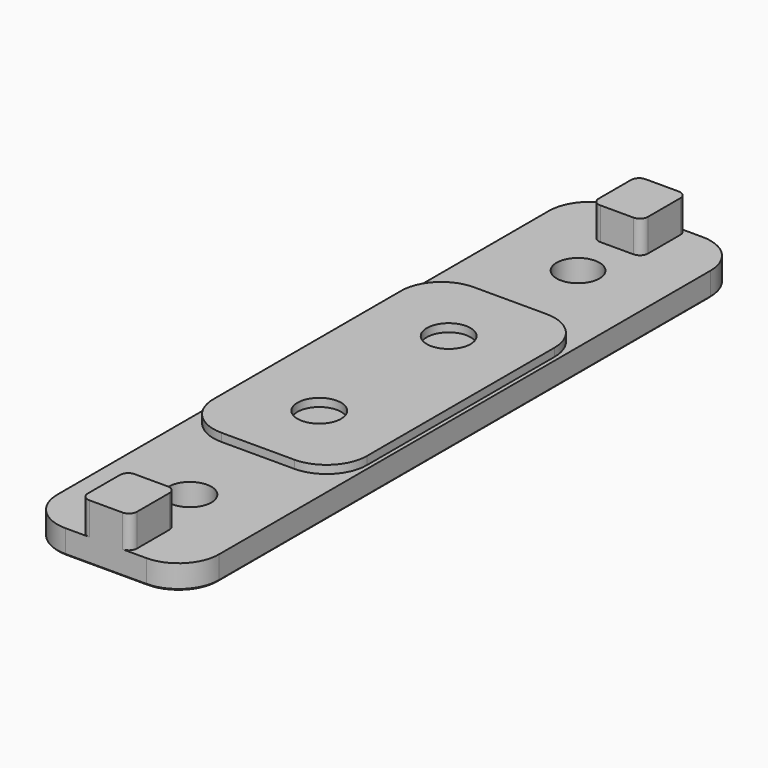
from build123d import *

# Parameters (mm, degrees)
F0_W       = 19
F0_H       = 39
F0_R       = 2.7
F3_R       = 5
F4_W       = 20
F4_H       = 86
F4_R       = 2.65
F5_DEPTH   = 3
F6_W       = 6.1
F6_H       = 7
F7_DEPTH   = 4
F8_R       = 5
F9_R       = 1
F10_SIZE   = 0.2
F10_2_SIZE = 0.2


with BuildPart() as f2:
    # F2: sweep along a path in F1
    with BuildLine(Plane.XZ) as f2_path:
        Line((0, 0), (0, 4))
    # F0 (on Top) → F2 (sweep)
    with BuildSketch(Plane.XY):
        Rectangle(F0_W, F0_H)
        with Locations((0, -10)):
            Circle(F0_R, mode=Mode.SUBTRACT)
        with Locations((0, 10)):
            Circle(F0_R, mode=Mode.SUBTRACT)
    sweep(path=f2_path.line)

    # F3
    f3_edges = [f2.edges().sort_by_distance(p)[0] for p in [
        (-9.5, -19.5, 2),
        (9.5, -19.5, 2),
        (-9.5, 19.5, 2),
        (9.5, 19.5, 2),
    ]]
    fillet(f3_edges, radius=F3_R)

    # F10
    f10_edges = [f2.edges().sort_by_distance(p)[0] for p in [
        (9.5, 0, 0),
        (8.035534, -18.035534, 0),
        (8.035534, 18.035534, 0),
        (0, -19.5, 0),
        (0, 19.5, 0),
        (-8.035534, -18.035534, 0),
        (-8.035534, 18.035534, 0),
        (-9.5, 0, 0),
        (-2.7, -10, 0),
        (-2.7, 10, 0),
    ]]
    chamfer(f10_edges, length=F10_SIZE)


with BuildPart() as f5:
    # F4 (on Top) → F5 (new body)
    with BuildSketch(Plane.XY):
        Rectangle(F4_W, F4_H)
        with Locations((0, -30)):
            Circle(F4_R, mode=Mode.SUBTRACT)
        Circle(F4_R, mode=Mode.SUBTRACT)
        with Locations((0, 30)):
            Circle(F4_R, mode=Mode.SUBTRACT)
    extrude(amount=F5_DEPTH)

    # F6 (on face) → F7 (join)
    with BuildSketch(Plane.XY.offset(3)):
        with Locations((0, 39.5)):
            Rectangle(F6_W, F6_H)
        with Locations((0, -39.5)):
            Rectangle(F6_W, F6_H)
    extrude(amount=F7_DEPTH)

    # F8
    f8_edges = [f5.edges().sort_by_distance(p)[0] for p in [
        (-10, -43, 1.5),
        (10, -43, 1.5),
        (-10, 43, 1.5),
        (10, 43, 1.5),
    ]]
    fillet(f8_edges, radius=F8_R)

    # F9
    f9_edges = [f5.edges().sort_by_distance(p)[0] for p in [
        (-3.05, -43, 5),
        (3.05, -43, 5),
        (-3.05, -36, 5),
        (3.05, -36, 5),
        (3.05, 43, 5),
        (3.05, 36, 5),
        (-3.05, 36, 5),
        (-3.05, 43, 5),
    ]]
    fillet(f9_edges, radius=F9_R)

    # F10#2
    f10_2_edges = [f5.edges().sort_by_distance(p)[0] for p in [
        (10, 0, 0),
        (8.535534, -41.535534, 0),
        (8.535534, 41.535534, 0),
        (0, -43, 0),
        (0, 43, 0),
        (-8.535534, -41.535534, 0),
        (-8.535534, 41.535534, 0),
        (-10, 0, 0),
        (-2.65, -30, 0),
        (-2.65, 0, 0),
        (-2.65, 30, 0),
    ]]
    chamfer(f10_2_edges, length=F10_2_SIZE)


solid = Compound([f2.part, f5.part])
